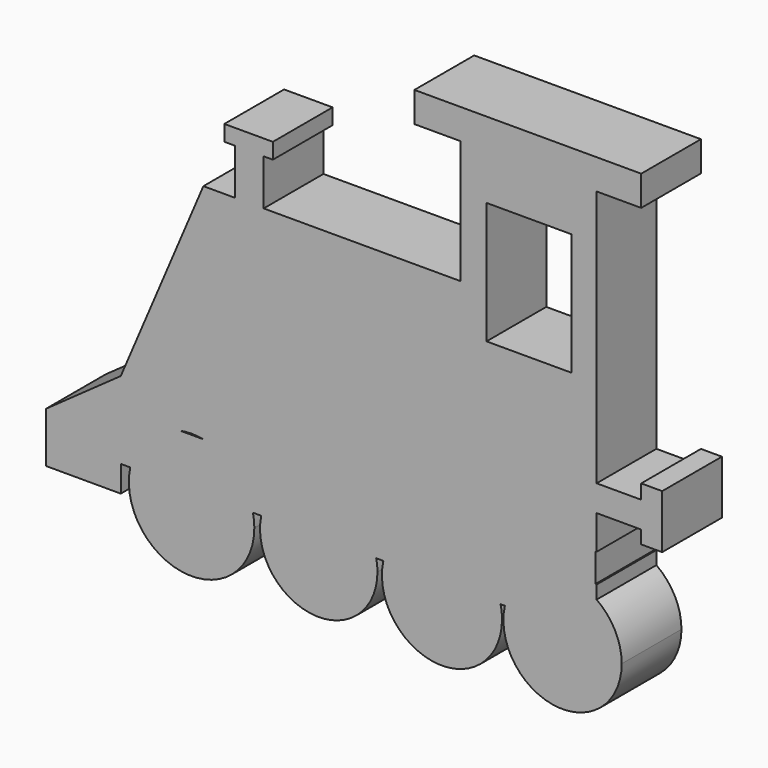
from build123d import *

# Parameters (mm, degrees)
F0_W     = 9.8080858588
F0_H     = 15.6037732959
F0_W_2   = 28.9784371853
F0_H_2   = 41.4614528418
F0_W_3   = 15.1579454541
F0_H_3   = 8.9164413512
F1_DEPTH = 25.4


with BuildPart() as f1:
    # F0 (on Front) → F1 (new body)
    with BuildSketch(Plane.XZ):
        Polygon((-47.0342300832, 34.1053940356), (-57.7339567244, 34.1053940356), (-57.7339567244, -31.8762771785), (29.6471677721, -31.8762771785), (29.6471677721, 34.1053940356), (-37.2261442244, 34.1053940356), align=None)
        Polygon((-57.7339567244, -31.8762771785), (-57.7339567244, 34.1053940356), (-85.820749402, -31.8762771785), align=None)
        with Locations((-42.1301871538, 41.9072806835)):
            Rectangle(F0_W, F0_H)
        with BuildLine():
            Line((29.6471677721, -31.8762771785), (-57.7339567244, -31.8762771785))
            Line((-57.7339567244, -31.8762771785), (-85.820749402, -31.8762771785))
            Line((-85.820749402, -31.8762771785), (-85.820749402, -41.6843593121))
            Line((-85.820749402, -41.6843593121), (-65.7587572932, -41.6843593121))
            ThreePointArc((-65.7587572932, -41.6843593121), (-61.7463588715, -41.3036522536), (-57.7339604497, -41.6843593121))
            Line((-57.7339604497, -41.6843593121), (75.566843152, -41.6843593121))
            Line((75.566843152, -41.6843593121), (75.566843152, -31.8762771785))
            Line((75.566843152, -31.8762771785), (29.6471677721, -31.8762771785))
        make_face()
        Polygon((-85.820749402, -41.6843593121), (-85.820749402, -31.8762771785), (-111.2326085567, -49.9320700765), (-85.820749402, -49.9320700765), align=None)
        Polygon((-50.6008081138, 49.7091673315), (-47.0342300832, 49.7091673315), (-37.2261442244, 49.7091673315), (-34.1053903103, 49.7091673315), (-34.1053903103, 55.059030652), (-50.6008081138, 55.059030652), align=None)
        Polygon((29.6471677721, 34.1053940356), (29.6471677721, -31.8762771785), (75.566843152, -31.8762771785), (76.0126635432, -31.8762771785), (76.0126635432, -20.2849023044), (76.0126635432, -11.3684609532), (76.0126635432, 76.0126635432), (29.6471677721, 76.0126635432), align=None)
        with Locations((53.0528277159, 39.6781675518)):
            Rectangle(F0_W_2, F0_H_2, mode=Mode.SUBTRACT)
        with BuildLine():
            Line((-65.7587572932, -41.6843593121), (-85.820749402, -41.6843593121))
            Line((-85.820749402, -41.6843593121), (-85.820749402, -49.9320700765))
            Line((-85.820749402, -49.9320700765), (-85.820749402, -58.1797808409))
            Line((-85.820749402, -58.1797808409), (-82.6096979015, -58.1797808409))
            ThreePointArc((-82.6096979015, -58.1797808409), (-76.6703433025, -47.3923721355), (-65.7587572932, -41.6843593121))
        make_face()
        Polygon((-85.820749402, -49.9320700765), (-111.2326085567, -49.9320700765), (-111.2326085567, -67.0962259173), (-85.820749402, -67.0962259173), (-85.820749402, -58.1797808409), align=None)
        with BuildLine():
            Line((-57.7339604497, -41.6843593121), (-65.7587572932, -41.6843593121))
            ThreePointArc((-65.7587572932, -41.6843593121), (-76.6703433025, -47.3923721355), (-82.6096979015, -58.1797808409))
            Line((-82.6096979015, -58.1797808409), (-40.8830198414, -58.1797808409))
            ThreePointArc((-40.8830198414, -58.1797808409), (-46.8223744405, -47.3923721355), (-57.7339604497, -41.6843593121))
        make_face()
        Polygon((14.0433991328, 76.0126635432), (29.6471677721, 76.0126635432), (76.0126635432, 76.0126635432), (91.1706089973, 76.0126635432), (91.1706089973, 86.2665772438), (14.0433991328, 86.2665772438), align=None)
        with BuildLine():
            Line((76.0126635432, -41.6843593121), (75.566843152, -41.6843593121))
            Line((75.566843152, -41.6843593121), (-57.7339604497, -41.6843593121))
            ThreePointArc((-57.7339604497, -41.6843593121), (-46.8223744405, -47.3923721355), (-40.8830198414, -58.1797808409))
            Line((-40.8830198414, -58.1797808409), (-38.0569003573, -58.1797808409))
            ThreePointArc((-38.0569003573, -58.1797808409), (-18.5016151518, -42.2295010715), (1.0536700538, -58.1797808409))
            Line((1.0536700538, -58.1797808409), (3.4778552674, -58.1797808409))
            ThreePointArc((3.4778552674, -58.1797808409), (23.4056599438, -42.2175962213), (43.3334646202, -58.1797808409))
            Line((43.3334646202, -58.1797808409), (44.805124402, -58.1797808409))
            ThreePointArc((44.805124402, -58.1797808409), (57.210420743, -43.8584153697), (76.0126635432, -46.19690889))
            Line((76.0126635432, -46.19690889), (76.0126635432, -41.6843593121))
        make_face()
        with BuildLine():
            Line((-40.8830198414, -58.1797808409), (-82.6096979015, -58.1797808409))
            ThreePointArc((-82.6096979015, -58.1797808409), (-63.9878782959, -83.8542812252), (-40.4120040206, -62.6380071044))
            ThreePointArc((-40.4120040206, -62.6380071044), (-40.5300847506, -60.39648768), (-40.8830198414, -58.1797808409))
        make_face()
        with Locations((83.5916362703, -15.8266816288)):
            Rectangle(F0_W_3, F0_H_3)
        Polygon((91.1706089973, -11.3684609532), (91.1706089973, -20.2849023044), (91.1706089973, -24.74312298), (98.3037799597, -24.74312298), (98.3037799597, -6.4644180238), (91.1706089973, -6.4644180238), align=None)
        with BuildLine():
            ThreePointArc((84.5376919751, -62.6380071044), (82.2797104052, -53.3780689261), (76.0126635432, -46.19690889))
            Line((76.0126635432, -46.19690889), (76.0126635432, -58.1797808409))
            Line((76.0126635432, -58.1797808409), (44.805124402, -58.1797808409))
            ThreePointArc((44.805124402, -58.1797808409), (62.1781869933, -82.6289594789), (84.5376919751, -62.6380071044))
        make_face()
        with BuildLine():
            Line((76.0126635432, -58.1797808409), (76.0126635432, -46.19690889))
            ThreePointArc((76.0126635432, -46.19690889), (57.210420743, -43.8584153697), (44.805124402, -58.1797808409))
            Line((44.805124402, -58.1797808409), (76.0126635432, -58.1797808409))
        make_face()
        with BuildLine():
            ThreePointArc((1.0536700538, -58.1797808409), (-18.5016151518, -42.2295010715), (-38.0569003573, -58.1797808409))
            Line((-38.0569003573, -58.1797808409), (1.0536700538, -58.1797808409))
        make_face()
        with BuildLine():
            Line((1.0536700538, -58.1797808409), (-38.0569003573, -58.1797808409))
            ThreePointArc((-38.0569003573, -58.1797808409), (-20.5181288599, -82.0527480619), (1.4610630394, -62.1921792626))
            ThreePointArc((1.4610630394, -62.1921792626), (1.3589536475, -60.1756655545), (1.0536700538, -58.1797808409))
        make_face()
        with BuildLine():
            ThreePointArc((43.826070827, -62.6380071044), (43.7025456671, -60.3953277754), (43.3334646202, -58.1797808409))
            Line((43.3334646202, -58.1797808409), (3.4778552674, -58.1797808409))
            ThreePointArc((3.4778552674, -58.1797808409), (21.1629806148, -82.9348928277), (43.826070827, -62.6380071044))
        make_face()
        with BuildLine():
            Line((3.4778552674, -58.1797808409), (43.3334646202, -58.1797808409))
            ThreePointArc((43.3334646202, -58.1797808409), (23.4056599438, -42.2175962213), (3.4778552674, -58.1797808409))
        make_face()
    extrude(amount=F1_DEPTH)


solid = f1.part
